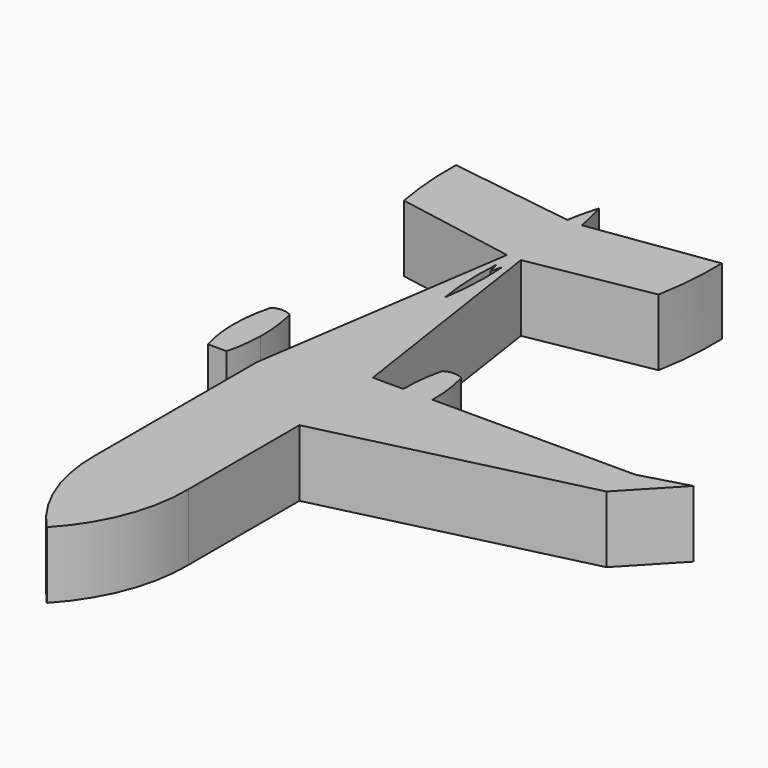
from build123d import *

# Parameters (mm, degrees)
F1_DEPTH = 9.652


with BuildPart() as f1:
    # F0 (on Top) → F1 (new body)
    with BuildSketch(Plane.XY):
        with BuildLine():
            Line((-6.700701, -16.211178), (-6.700701, -36.303711))
            ThreePointArc((-6.700701, -36.303711), (-5.050182, -45.598572), (0, -53.574432))
            ThreePointArc((0, -53.574432), (5.050182, -45.598572), (6.700701, -36.303711))
            Line((6.700701, -36.303711), (6.700701, -16.211178))
            Line((6.700701, -16.211178), (6.700701, -7.210088))
            Line((6.700701, -7.210088), (5.916144, -1.941705))
            Line((5.916144, -1.941705), (1.011126, 30.996017))
            ThreePointArc((1.011126, 30.996017), (0.755044, 29.660392), (0.44457, 28.336354))
            ThreePointArc((0.44457, 28.336354), (0.514056, 23.402501), (0, 18.49501))
            ThreePointArc((0, 18.49501), (-0.514056, 23.402501), (-0.44457, 28.336354))
            ThreePointArc((-0.44457, 28.336354), (-0.755044, 29.660392), (-1.011126, 30.996017))
            Line((-1.011126, 30.996017), (-5.916144, -1.941705))
            Line((-5.916144, -1.941705), (-6.700701, -7.210088))
            Line((-6.700701, -7.210088), (-6.700701, -16.211178))
        make_face()
        with BuildLine():
            ThreePointArc((-11.054505, -7.210088), (-10.544003, -4.596626), (-10.338607, -1.941705))
            ThreePointArc((-10.338607, -1.941705), (-10.488245, 1.162568), (-11.054505, 4.218423))
            ThreePointArc((-11.054505, 4.218423), (-12.411724, 4.618153), (-13.774321, 4.237153))
            ThreePointArc((-13.774321, 4.237153), (-14.391497, 1.176412), (-14.55396, -1.941705))
            ThreePointArc((-14.55396, -1.941705), (-14.329674, -4.600393), (-13.774321, -7.210088))
            Line((-13.774321, -7.210088), (-11.054505, -7.210088))
        make_face()
        with BuildLine():
            Line((6.700701, -7.210088), (6.700701, -16.211178))
            Line((6.700701, -16.211178), (43.963221, -7.210088))
            Line((43.963221, -7.210088), (50.799912, 0))
            Line((50.799912, 0), (43.963221, -1.941705))
            Line((43.963221, -1.941705), (14.55396, -1.941705))
            ThreePointArc((14.55396, -1.941705), (14.329674, -4.600393), (13.774321, -7.210088))
            Line((13.774321, -7.210088), (11.054505, -7.210088))
            ThreePointArc((11.054505, -7.210088), (10.544003, -4.596626), (10.338607, -1.941705))
            Line((10.338607, -1.941705), (5.916144, -1.941705))
            Line((5.916144, -1.941705), (6.700701, -7.210088))
        make_face()
        with BuildLine():
            Line((-18.433218, 34.138091), (-1.011126, 30.996017))
            ThreePointArc((-1.011126, 30.996017), (-1.484671, 36.483617), (-1.045989, 41.974113))
            Line((-1.045989, 41.974113), (-19.255532, 44.58786))
            ThreePointArc((-19.255532, 44.58786), (-19.115233, 39.341661), (-18.433218, 34.138091))
        make_face()
        with BuildLine():
            ThreePointArc((-1.045989, 41.974113), (-1.484671, 36.483617), (-1.011126, 30.996017))
            ThreePointArc((-1.011126, 30.996017), (-0.755044, 29.660392), (-0.44457, 28.336354))
            ThreePointArc((-0.44457, 28.336354), (-0.231957, 27.546877), (0, 26.762867))
            ThreePointArc((0, 26.762867), (0.231957, 27.546877), (0.44457, 28.336354))
            ThreePointArc((0.44457, 28.336354), (0.755044, 29.660392), (1.011126, 30.996017))
            ThreePointArc((1.011126, 30.996017), (1.484671, 36.483617), (1.045989, 41.974113))
            ThreePointArc((1.045989, 41.974113), (0.599258, 44.212814), (0, 46.415593))
            ThreePointArc((0, 46.415593), (-0.599258, 44.212814), (-1.045989, 41.974113))
        make_face()
        with BuildLine():
            ThreePointArc((1.045989, 41.974113), (1.484671, 36.483617), (1.011126, 30.996017))
            Line((1.011126, 30.996017), (18.433218, 34.138091))
            ThreePointArc((18.433218, 34.138091), (19.115233, 39.341661), (19.255532, 44.58786))
            Line((19.255532, 44.58786), (1.045989, 41.974113))
        make_face()
        with BuildLine():
            ThreePointArc((11.054505, 4.218423), (10.488245, 1.162568), (10.338607, -1.941705))
            ThreePointArc((10.338607, -1.941705), (10.544003, -4.596626), (11.054505, -7.210088))
            Line((11.054505, -7.210088), (13.774321, -7.210088))
            ThreePointArc((13.774321, -7.210088), (14.329674, -4.600393), (14.55396, -1.941705))
            ThreePointArc((14.55396, -1.941705), (14.391497, 1.176412), (13.774321, 4.237153))
            ThreePointArc((13.774321, 4.237153), (12.411724, 4.618153), (11.054505, 4.218423))
        make_face()
    extrude(amount=F1_DEPTH)


solid = f1.part
